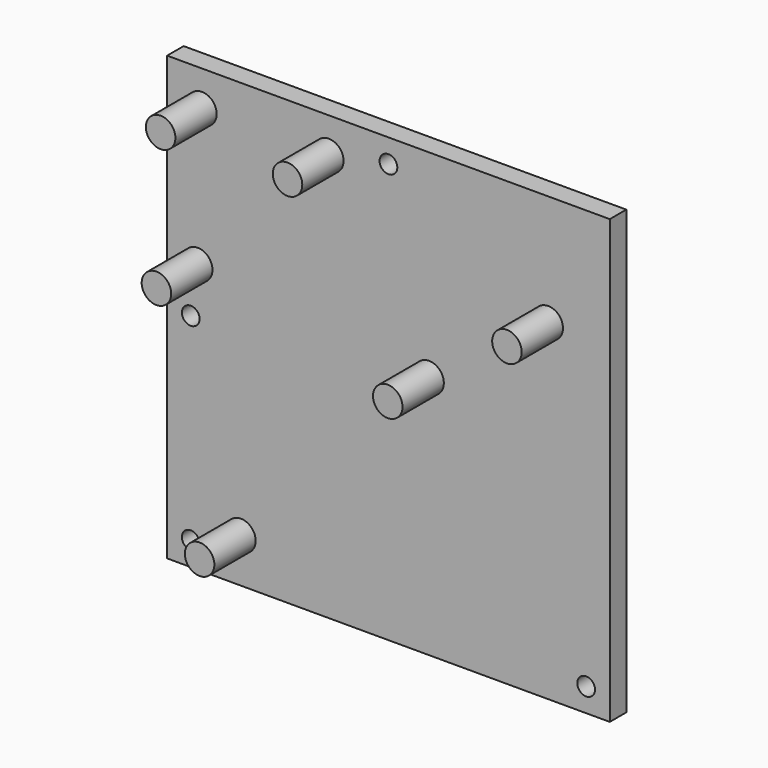
from build123d import *

# Parameters (mm, degrees)
F0_W     = 150
F0_H     = 150
F0_R     = 3
F1_DEPTH = 7
F2_R     = 5
F3_DEPTH = 17.5


with BuildPart() as f1:
    # F0 (on Front) → F1 (new body)
    with BuildSketch(Plane.XZ):
        with Locations((6.393103, 60.418246)):
            Rectangle(F0_W, F0_H)
        with Locations((-60.606897, -6.581754)):
            Circle(F0_R, mode=Mode.SUBTRACT)
        with Locations((73.393103, -6.581754)):
            Circle(F0_R, mode=Mode.SUBTRACT)
        with Locations((-60.606897, 60.418246)):
            Circle(F0_R, mode=Mode.SUBTRACT)
        with Locations((6.393103, 127.418246)):
            Circle(F0_R, mode=Mode.SUBTRACT)
    extrude(amount=F1_DEPTH)

    # F2 (on face) → F3 (join)
    with BuildSketch(Plane.XZ.offset(7)):
        with Locations((-56.816334, 123.454368)):
            Circle(F2_R)
        with Locations((-13.816334, 123.454368)):
            Circle(F2_R)
        with Locations((-58.237764, 76.475867)):
            Circle(F2_R)
        with Locations((-43.606897, 0.418246)):
            Circle(F2_R)
        with Locations((20.157204, 68.235859)):
            Circle(F2_R)
        with Locations((60.537563, 97.721901)):
            Circle(F2_R)
    extrude(amount=F3_DEPTH)


solid = f1.part
